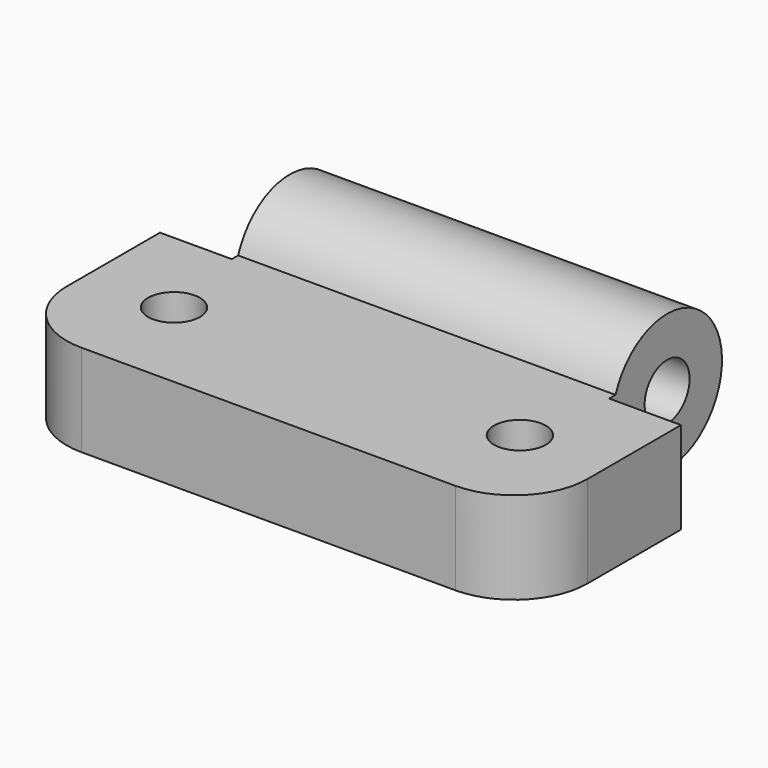
from build123d import *

# Parameters (mm, degrees)
F1_DEPTH = 5.32
F3_DEPTH = 21.82
F4_DEPTH = 25.971
F5_R     = 1.5
F6_DEPTH = 5.321


with BuildPart() as f1:
    # F0 (on Top) → F1 (new body)
    with BuildSketch(Plane.XY):
        with BuildLine():
            Line((-10.81, 0), (0, 0))
            Line((0, 0), (10.81, 0))
            ThreePointArc((10.81, 0), (13.81520382, 1.24479618), (15.06, 4.25))
            Line((15.06, 4.25), (15.06, 11))
            Line((15.06, 11), (10.91, 11))
            Line((10.91, 11), (10.91, 15.145))
            Line((10.91, 15.145), (-10.91, 15.145))
            Line((-10.91, 15.145), (-10.91, 11))
            Line((-10.91, 11), (-15.06, 11))
            Line((-15.06, 11), (-15.06, 4.25))
            ThreePointArc((-15.06, 4.25), (-13.81520382, 1.24479618), (-10.81, 0))
        make_face()
    extrude(amount=F1_DEPTH)

    # F2 (on face) → F3 (join, through all)
    with BuildSketch(Plane(origin=(-10.91, 0, 0), x_dir=(0, -1, 0), z_dir=(-1, 0, 0))):
        with BuildLine():
            Line((-14.2880050167, 5.32), (-11.4587149867, 5.32))
            ThreePointArc((-11.4587149867, 5.32), (-18.4440319116, 6.2233037881), (-15.145, 0.0002017706))
            Line((-15.145, 0.0002017706), (-15.145, 2.3404923823))
            ThreePointArc((-15.145, 2.3404923823), (-16.7466838062, 4.4141866976), (-14.2880050167, 5.32))
        make_face()
        with BuildLine():
            Line((-15.145, 5.32), (-14.2880050167, 5.32))
            ThreePointArc((-14.2880050167, 5.32), (-16.7466838062, 4.4141866976), (-15.145, 2.3404923823))
            Line((-15.145, 2.3404923823), (-15.145, 5.32))
        make_face()
    extrude(amount=-F3_DEPTH)

    # F2 (on face) → F4 (cut, through all)
    with BuildSketch(Plane(origin=(-10.91, 0, 0), x_dir=(0, -1, 0), z_dir=(-1, 0, 0))):
        with BuildLine():
            Line((-15.145, 5.32), (-14.2880050167, 5.32))
            ThreePointArc((-14.2880050167, 5.32), (-16.7466838062, 4.4141866976), (-15.145, 2.3404923823))
            Line((-15.145, 2.3404923823), (-15.145, 5.32))
        make_face()
        with BuildLine():
            ThreePointArc((-13.56, 3.965), (-13.7535249133, 4.7340930217), (-14.2880050167, 5.32))
            Line((-14.2880050167, 5.32), (-15.145, 5.32))
            Line((-15.145, 5.32), (-15.145, 2.3404923823))
            ThreePointArc((-15.145, 2.3404923823), (-14.0218953186, 2.8301817326), (-13.56, 3.965))
        make_face()
    extrude(amount=-F4_DEPTH, mode=Mode.SUBTRACT)

    # F5 (on face) → F6 (cut, through all)
    with BuildSketch(Plane.XY.offset(5.32)):
        with Locations((-10, 5.685)):
            Circle(F5_R)
        with Locations((10, 5.685)):
            Circle(F5_R)
    extrude(amount=-F6_DEPTH, mode=Mode.SUBTRACT)


solid = f1.part
